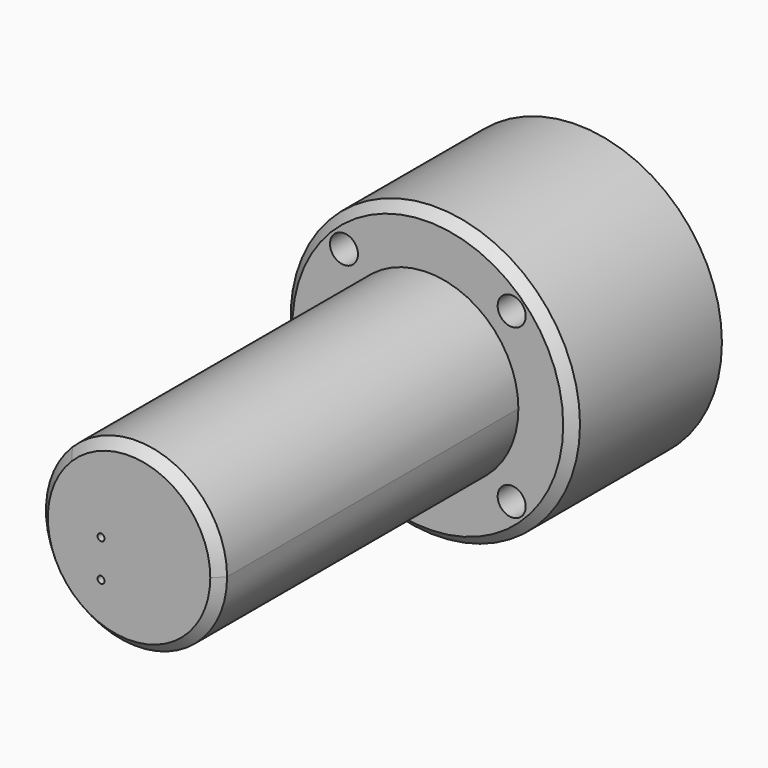
from build123d import *

# Parameters (mm, degrees)
F0_R     = 31
F0_R_2   = 3
F1_DEPTH = 40
F3_DEPTH = 80
F4_R     = 0.75
F5_DEPTH = 15
F6_SIZE  = 2


with BuildPart() as f1:
    # F0 (on Front) → F1 (new body)
    with BuildSketch(Plane.XZ):
        Circle(F0_R)
        with Locations((-17.960512, -17.960512)):
            Circle(F0_R_2, mode=Mode.SUBTRACT)
        with Locations((17.960512, -17.960512)):
            Circle(F0_R_2, mode=Mode.SUBTRACT)
        with Locations((-17.960512, 17.960512)):
            Circle(F0_R_2, mode=Mode.SUBTRACT)
        with Locations((17.960512, 17.960512)):
            Circle(F0_R_2, mode=Mode.SUBTRACT)
    extrude(amount=F1_DEPTH)

    # F2 (on face) → F3 (join)
    with BuildSketch(Plane.XZ.offset(40)):
        with BuildLine():
            ThreePointArc((19.4, 0), (7.424059, 17.923263), (-13.717872, 13.717872))
            ThreePointArc((-13.717872, 13.717872), (-7.424059, -17.923263), (19.4, 0))
        make_face()
    extrude(amount=F3_DEPTH)

    # F4 (on face) → F5 (cut)
    with BuildSketch(Plane.XZ.offset(120)):
        with Locations((-6, 0)):
            Circle(F4_R)
        with Locations((-6, -8)):
            Circle(F4_R)
    extrude(amount=-F5_DEPTH, mode=Mode.SUBTRACT)

    # F6
    f6_edges = [f1.edges().sort_by_distance(p)[0] for p in [
        (-19.4, -120, 0),
        (-31, -40, 0),
    ]]
    chamfer(f6_edges, length=F6_SIZE)


solid = f1.part
